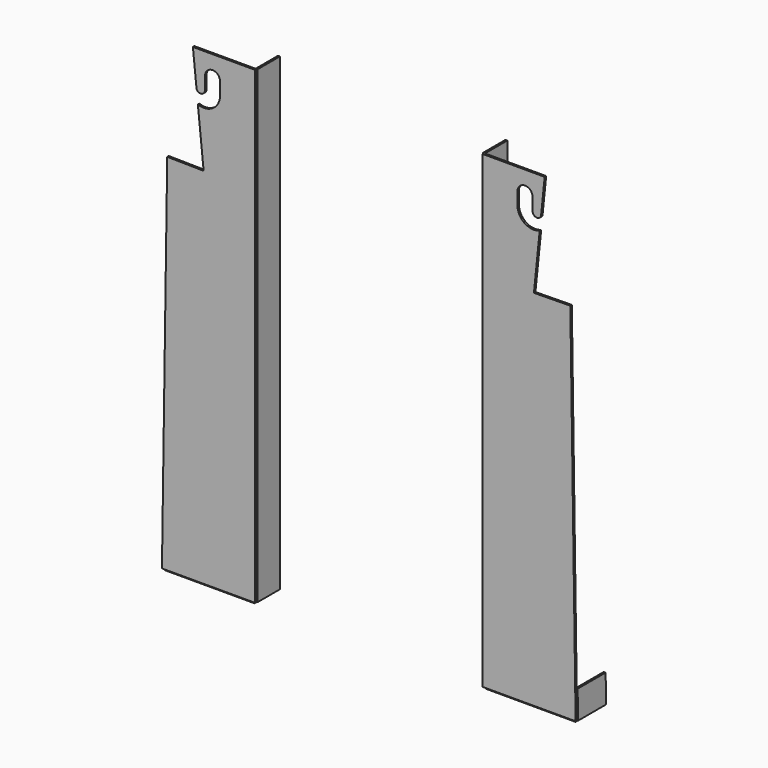
from build123d import *

# Parameters (mm, degrees)
F1_DEPTH = 1.7018
F2_W     = 25.4
F2_H     = 425.45
F3_DEPTH = 0.8509
F4_W     = 31.75
F4_H     = 25.4
F5_DEPTH = 0.8509
F6_W     = 81.28
F6_H     = 20.32
F7_DEPTH = 1.7018


with BuildPart() as f1:
    # F0 (on Front) → F1 (new body)
    with BuildSketch(Plane.XZ):
        with BuildLine():
            Line((-103.1669212267, 187.8218817012), (-159.5041212267, 187.8218817012))
            Line((-159.5041212267, 187.8218817012), (-156.1867401145, 155.187252012))
            ThreePointArc((-156.1867401145, 155.187252012), (-151.5571706541, 153.0283143942), (-148.5376311099, 157.1485456944))
            Line((-148.5376311099, 157.1485456944), (-148.5376311099, 167.949217708))
            ThreePointArc((-148.5376311099, 167.949217708), (-148.54485374, 168.2638817012), (-148.5376311099, 168.5785456944))
            ThreePointArc((-148.5376311099, 168.5785456944), (-141.68685374, 175.1218817012), (-134.8360763702, 168.5785456944))
            Line((-134.8360763702, 168.5785456944), (-134.8216311099, 168.5785456944))
            Line((-134.8216311099, 168.5785456944), (-134.8216311099, 157.1485456944))
            ThreePointArc((-134.8216311099, 157.1485456944), (-141.2752918314, 144.9501853795), (-154.9908311102, 143.4225357558))
            Line((-154.9908311102, 143.4225357558), (-149.7695864082, 92.058709411))
            Line((-149.7695864082, 92.058709411), (-182.7861191995, 92.5372096138))
            Line((-182.7861191995, 92.5372096138), (-187.5711212267, -237.6281182988))
            Line((-187.5711212267, -237.6281182988), (-103.1669212267, -237.6281182988))
            Line((-103.1669212267, -237.6281182988), (-103.1669212267, 187.8218817012))
        make_face()
    extrude(amount=F1_DEPTH)


with BuildPart() as f3:
    # F2 (on face) → F3 (new body, symmetric)
    with BuildSketch(Plane.YZ.offset(-103.1669212267)):
        with Locations((12.7, -24.9031182988)):
            Rectangle(F2_W, F2_H)
    extrude(amount=F3_DEPTH, both=True)


with BuildPart() as f5:
    # F4 (on face) → F5 (new body, symmetric)
    with BuildSketch(Plane(origin=(-184.0885715131, 0, 2.6679487923), x_dir=(0, -1, 0), z_dir=(-0.9998949967, 0, 0.0144912236))):
        with Locations((-15.875, -227.6213016192)):
            Rectangle(F4_W, F4_H)
    extrude(amount=F5_DEPTH, both=True)


with BuildPart() as f7:
    # F6 (on face) → F7 (new body)
    with BuildSketch(Plane(origin=(0, 0, -237.6281182988), x_dir=(1, 0, 0), z_dir=(0, 0, -1))):
        with Locations((-145.5118919468, -10.16)):
            Rectangle(F6_W, F6_H)
    extrude(amount=F7_DEPTH)


with BuildPart() as f8_1:
    # F8: instance of F1
    add(f1.part.mirror(Plane.YZ))


with BuildPart() as f8_2:
    # F8: instance of F3
    add(f3.part.mirror(Plane.YZ))


with BuildPart() as f8_3:
    # F8: instance of F5
    add(f5.part.mirror(Plane.YZ))


with BuildPart() as f8_4:
    # F8: instance of F7
    add(f7.part.mirror(Plane.YZ))


solid = Compound([f1.part, f3.part, f5.part, f7.part, f8_1.part, f8_2.part, f8_3.part, f8_4.part])
